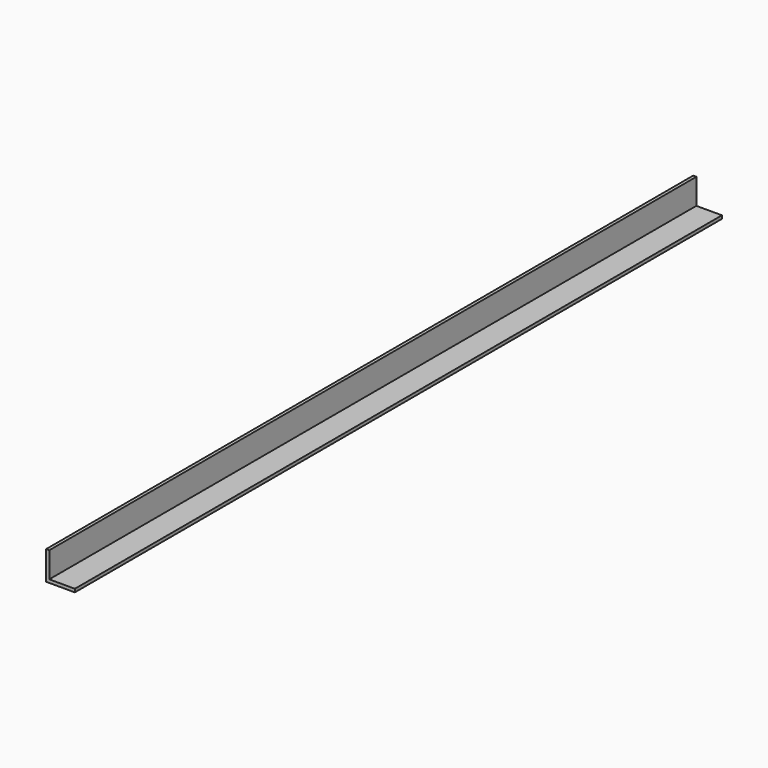
from build123d import *

# Parameters (mm, degrees)
F1_DEPTH = 25.4
F2_DEPTH = 777.875


with BuildPart() as f1:
    # F0 (on Front) → F1 (new body)
    with BuildSketch(Plane.XZ):
        Polygon((0, -17.458573), (-25.4, -17.458573), (-25.4, 7.941427), (-28.575, 7.941427), (-28.575, -20.633573), (0, -20.633573), align=None)
    extrude(amount=F1_DEPTH)

    # F1_face (on face) → F2 (join)
    with BuildSketch(Plane(origin=(-20.263971, 0, -12.322544), x_dir=(1, 0, 0), z_dir=(0, 1, 0))):
        Polygon((20.263971, 8.311029), (-8.311029, 8.311029), (-8.311029, -20.263971), (-5.136029, -20.263971), (-5.136029, 5.136029), (20.263971, 5.136029), align=None)
    extrude(amount=F2_DEPTH)


solid = f1.part
